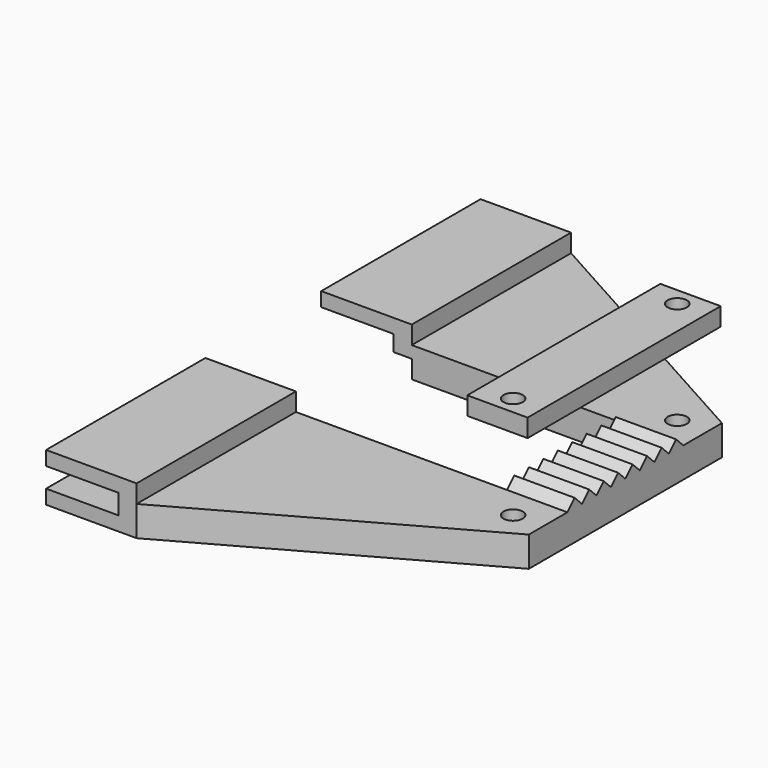
from build123d import *

# Parameters (mm, degrees)
F0_W      = 90
F0_H      = 8
F1_DEPTH  = 15
F2_W      = 90
F2_H      = 3.3
F3_DEPTH  = 12
F4_W      = 24
F4_H      = 5
F5_DEPTH  = 15
F6_W      = 46
F6_H      = 3
F7_DEPTH  = 18
F8_W      = 24
F8_H      = 6
F9_DEPTH  = 15
F11_DEPTH = 5
F12_R     = 1.6
F13_DEPTH = 5
F15_DEPTH = 10
F17_W     = 10
F17_H     = 40
F17_R     = 1.6
F18_DEPTH = 3


with BuildPart() as f1:
    # F0 (on Right) → F1 (new body)
    with BuildSketch(Plane.YZ):
        Rectangle(F0_W, F0_H)
    extrude(amount=-F1_DEPTH)

    # F2 (on face) → F3 (cut)
    with BuildSketch(Plane(origin=(-15, 0, 0), x_dir=(0, -1, 0), z_dir=(-1, 0, 0))):
        Rectangle(F2_W, F2_H)
    extrude(amount=-F3_DEPTH, mode=Mode.SUBTRACT)

    # F4 (on face) → F5 (cut)
    with BuildSketch(Plane.YZ):
        with Locations((0, 1.5)):
            Rectangle(F4_W, F4_H)
    extrude(amount=-F5_DEPTH, mode=Mode.SUBTRACT)

    # F6 (on face) → F7 (cut)
    with BuildSketch(Plane.YZ):
        with Locations((0, -2.5)):
            Rectangle(F6_W, F6_H)
    extrude(amount=-F7_DEPTH, mode=Mode.SUBTRACT)

    # F8 (on face) → F9 (cut)
    with BuildSketch(Plane.YZ):
        with Locations((0, -1)):
            Rectangle(F8_W, F8_H)
    extrude(amount=-F9_DEPTH, mode=Mode.SUBTRACT)

    # F10 (on face) → F11 (join)
    with BuildSketch(Plane(origin=(0, 0, -4), x_dir=(1, 0, 0), z_dir=(0, 0, -1))):
        Polygon((45, 20), (0, 45), (0, 12), (35, 12), (35, 0), (45, 0), align=None)
        Polygon((45, -20), (45, 0), (35, 0), (35, -12), (0, -12), (0, -45), align=None)
    extrude(amount=-F11_DEPTH)

    # F12 (on face) → F13 (cut)
    with BuildSketch(Plane.XY.offset(1)):
        with Locations((40, 17)):
            Circle(F12_R)
        with Locations((40, -17)):
            Circle(F12_R)
    extrude(amount=-F13_DEPTH, mode=Mode.SUBTRACT)

    # F14 (on face) → F15 (join)
    with BuildSketch(Plane.YZ.offset(45)):
        Polygon((10.5, 2.5), (9, 1), (12, 1), align=None)
        Polygon((7.5, 2.5), (6, 1), (9, 1), align=None)
        Polygon((4.5, 2.5), (3, 1), (6, 1), align=None)
        Polygon((1.5, 2.5), (0, 1), (3, 1), align=None)
        Polygon((-12, 1), (-9, 1), (-10.5, 2.5), align=None)
        Polygon((-9, 1), (-6, 1), (-7.5, 2.5), align=None)
        Polygon((-6, 1), (-3, 1), (-4.5, 2.5), align=None)
        Polygon((-3, 1), (0, 1), (-1.5, 2.5), align=None)
    extrude(amount=-F15_DEPTH)


with BuildPart() as f18:
    # F17 (on offset) → F18 (new body)
    with BuildSketch(Plane.XY.offset(15)):
        with Locations((39.796235, 0)):
            Rectangle(F17_W, F17_H)
        with Locations((40, -17)):
            Circle(F17_R, mode=Mode.SUBTRACT)
        with Locations((40, 17)):
            Circle(F17_R, mode=Mode.SUBTRACT)
    extrude(amount=F18_DEPTH)


solid = Compound([f1.part, f18.part])
